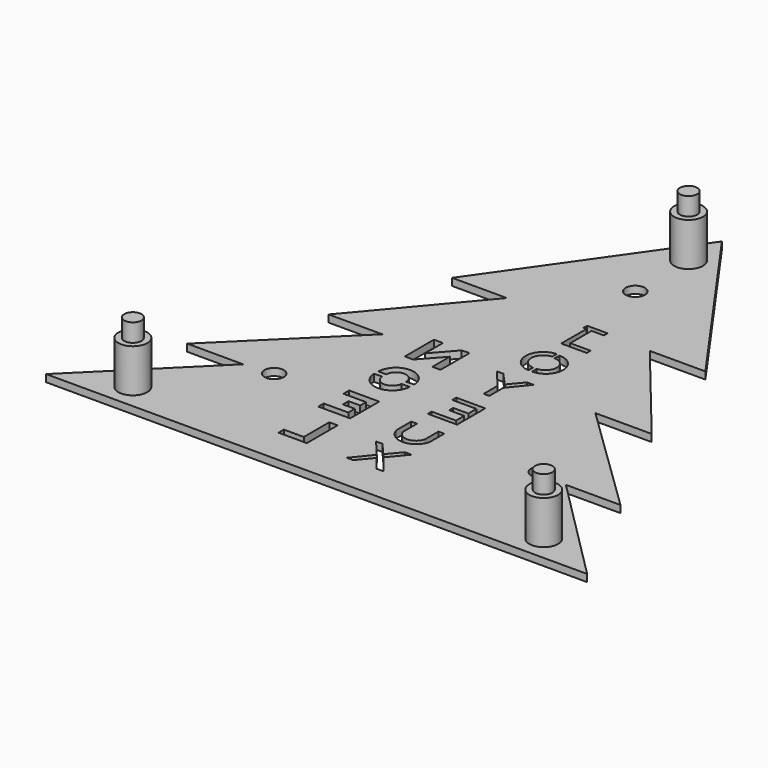
from build123d import *

# Parameters (mm, degrees)
CYLINDER006_R          = 2.4
CYLINDER006_DEPTH      = 7
CYLINDER004_R          = 4
CYLINDER004_DEPTH      = 12
CYLINDER007_R          = 2.4
CYLINDER007_DEPTH      = 7
CYLINDER005_R          = 4
CYLINDER005_DEPTH      = 12
CYLINDER_R             = 2.67
CYLINDER_DEPTH         = 2
CYLINDER001_R          = 2.67
CYLINDER001_DEPTH      = 2
CYLINDER002_R          = 2.67
CYLINDER002_DEPTH      = 2
PAD005_DEPTH           = 2
PAD006_DEPTH           = 2
PAD007_DEPTH           = 2
PAD008_DEPTH           = 2
PAD009_DEPTH           = 2
PAD010_DEPTH           = 2
PAD011_DEPTH           = 2
PAD013_DEPTH           = 2
PAD014_DEPTH           = 2
PAD015_DEPTH           = 2
PAD001_DEPTH           = 2
PAD004_DEPTH           = 2
PAD_DEPTH              = 2
CUT014_PLACEMENT_ANGLE = 180
CYLINDER003_R          = 4
CYLINDER003_DEPTH      = 12
CYLINDER008_R          = 2.4
CYLINDER008_DEPTH      = 7


with BuildPart() as cylindre006:
    # Cylinder006 → Cylinder006 (new body)
    with BuildSketch(Plane.XY.offset(10)):
        Circle(CYLINDER006_R)
    extrude(amount=CYLINDER006_DEPTH)


with BuildPart() as obj1:
    # Cylinder004 → Cylinder004 (new body)
    with BuildSketch(Plane.XY):
        Circle(CYLINDER004_R)
    extrude(amount=CYLINDER004_DEPTH)

    # Fusion001: union Cylindre006
    add(cylindre006.part)


with BuildPart() as obj1_1:
    # Fusion001 placement: moved
    add(obj1.part.moved(Location((57, -123, 0))))


with BuildPart() as cylindre007:
    # Cylinder007 → Cylinder007 (new body)
    with BuildSketch(Plane.XY.offset(10)):
        Circle(CYLINDER007_R)
    extrude(amount=CYLINDER007_DEPTH)


with BuildPart() as obj2:
    # Cylinder005 → Cylinder005 (new body)
    with BuildSketch(Plane.XY):
        Circle(CYLINDER005_R)
    extrude(amount=CYLINDER005_DEPTH)

    # Fusion002: union Cylindre007
    add(cylindre007.part)


with BuildPart() as obj2_1:
    # Fusion002 placement: moved
    add(obj2.part.moved(Location((0, -1.5, 0))))


with BuildPart() as obj3:
    # Cylinder → Cylinder (new body)
    with BuildSketch(Plane(origin=(0, -20, 0), x_dir=(1, 0, 0), z_dir=(0, 0, 1))):
        Circle(CYLINDER_R)
    extrude(amount=CYLINDER_DEPTH)


with BuildPart() as obj4:
    # Cylinder001 → Cylinder001 (new body)
    with BuildSketch(Plane(origin=(-37, -99, 0), x_dir=(1, 0, 0), z_dir=(0, 0, 1))):
        Circle(CYLINDER001_R)
    extrude(amount=CYLINDER001_DEPTH)


with BuildPart() as obj5:
    # Cylinder002 → Cylinder002 (new body)
    with BuildSketch(Plane(origin=(37, -99, 0), x_dir=(1, 0, 0), z_dir=(0, 0, 1))):
        Circle(CYLINDER002_R)
    extrude(amount=CYLINDER002_DEPTH)


with BuildPart() as pad005:
    # Sketch003 → Pad005 (new body)
    with BuildSketch(Plane(origin=(11, -73, 0), x_dir=(1, 0, 0), z_dir=(0, 0, 1))):
        with BuildLine():
            ThreePointArc((-16.037963, 9.653341), (-11.364469, 14.54891), (-16.07126, 19.412473))
            Line((-16.07126, 19.412473), (-16.07126, 17.849285))
            ThreePointArc((-16.099219, 11.213839), (-12.926154, 14.518251), (-16.07126, 17.849285))
            Line((-16.099219, 11.213839), (-16.037963, 9.653341))
        make_face()
    extrude(amount=PAD005_DEPTH)


with BuildPart() as pad006:
    # Sketch004 → Pad006 (new body)
    with BuildSketch(Plane(origin=(50, -28, 0), x_dir=(1, 0, 0), z_dir=(0, 0, 1))):
        Polygon((-60.172302, -40.014927), (-55.94516, -45.234154), (-55.94516, -50.065174), (-54.392334, -50.065174), (-54.392334, -45.234154), (-50.035789, -40.058064), (-51.804287, -40.014927), (-55.211884, -43.767593), (-58.360672, -40.014927), align=None)
    extrude(amount=PAD006_DEPTH)


with BuildPart() as pad007:
    # Sketch005 → Pad007 (new body)
    with BuildSketch(Plane(origin=(51, -113, 0), x_dir=(1, 0, 0), z_dir=(0, 0, 1))):
        Polygon((-59.924492, 29.827353), (-59.924492, 20.043087), (-51.799427, 20.043087), (-51.778122, 21.388154), (-58.539266, 21.388154), (-58.539266, 24.241791), (-54.392208, 24.241791), (-54.368668, 25.648745), (-58.563912, 25.648742), (-58.563912, 28.444752), (-51.871914, 28.444752), (-51.871914, 29.842251), align=None)
    extrude(amount=PAD007_DEPTH)


with BuildPart() as pad008:
    # Sketch006 → Pad008 (new body)
    with BuildSketch(Plane(origin=(40, -88, 0), x_dir=(1, 0, 0), z_dir=(0, 0, 1))):
        with BuildLine():
            ThreePointArc((-49.406039, -14.877108), (-44.91958, -18.684082), (-40.264656, -15.085049))
            Line((-40.264656, -10.039436), (-40.264656, -15.085049))
            Line((-41.877358, -10.014557), (-40.264656, -10.039436))
            Line((-41.877358, -14.88168), (-41.877358, -10.014557))
            ThreePointArc((-47.799763, -14.688175), (-44.913294, -17.072215), (-41.877358, -14.88168))
            Line((-47.799763, -10.014557), (-47.799763, -14.688175))
            Line((-49.406039, -10.014557), (-47.799763, -10.014557))
            Line((-49.406039, -14.877108), (-49.406039, -10.014557))
        make_face()
    extrude(amount=PAD008_DEPTH)


with BuildPart() as pad009:
    # Sketch007 → Pad009 (new body)
    with BuildSketch(Plane(origin=(40, -100, 0), x_dir=(1, 0, 0), z_dir=(0, 0, 1))):
        Polygon((-50.044407, -10.111172), (-48.184219, -10.111172), (-45.103821, -13.769145), (-41.913406, -10.083668), (-40.145214, -10.083668), (-44.168697, -14.869287), (-39.989098, -20.012453), (-41.77589, -20.012453), (-45.048813, -16.051941), (-48.266731, -20.012453), (-50.136971, -20.012453), (-46.03894, -14.924294), align=None)
    extrude(amount=PAD009_DEPTH)


with BuildPart() as pad010:
    # Sketch008 → Pad010 (new body)
    with BuildSketch(Plane(origin=(-50, -55, 0), x_dir=(1, 0, 0), z_dir=(0, 0, 1))):
        Polygon((59.944996, -10.081698), (59.944996, -20.096376), (62.215767, -20.096376), (62.215767, -14.04099), (67.572456, -20.038153), (69.901451, -20.038153), (69.901451, -9.965249), (67.397781, -9.965249), (67.397781, -16.195311), (62.099316, -10.139923), (60.294342, -10.023474), align=None)
    extrude(amount=PAD010_DEPTH)


with BuildPart() as pad011:
    # Sketch009 → Pad011 (new body)
    with BuildSketch(Plane(origin=(-50, -49, 0), x_dir=(1, 0, 0), z_dir=(0, 0, 1))):
        with BuildLine():
            ThreePointArc((69.990994, -35.138157), (65.066559, -30.24793), (60.081311, -35.076147))
            Line((60.081311, -35.076147), (62.25066, -35.155739))
            ThreePointArc((67.819598, -35.120229), (65.017788, -32.418467), (62.25066, -35.155739))
            Line((67.819598, -35.120229), (69.990994, -35.138157))
        make_face()
    extrude(amount=PAD011_DEPTH)


with BuildPart() as pad013:
    # Sketch010 → Pad013 (new body)
    with BuildSketch(Plane(origin=(-50, -50, 0), x_dir=(1, 0, 0), z_dir=(0, 0, 1))):
        with BuildLine():
            ThreePointArc((60.168351, -35.543583), (65.118967, -40.276993), (70.083354, -35.558027))
            Line((67.844375, -35.426405), (70.083354, -35.558027))
            ThreePointArc((62.41541, -35.543583), (65.184903, -38.033705), (67.844375, -35.426405))
            Line((60.168351, -35.543583), (62.41541, -35.543583))
        make_face()
    extrude(amount=PAD013_DEPTH)


with BuildPart() as pad014:
    # Sketch011 → Pad014 (new body)
    with BuildSketch(Plane(origin=(-49, -45, 0), x_dir=(1, 0, 0), z_dir=(0, 0, 1))):
        Polygon((60.004894, -50.040436), (60.004894, -60.12682), (68.854347, -60.12682), (68.854347, -58.239292), (62.037025, -58.239292), (62.037025, -55.989849), (65.320709, -55.989849), (65.320709, -54.042088), (62.078052, -54.042088), (62.078052, -52.009895), (68.356964, -52.009895), (68.356964, -50.040436), align=None)
    extrude(amount=PAD014_DEPTH)


with BuildPart() as pad015:
    # Sketch012 → Pad015 (new body)
    with BuildSketch(Plane(origin=(-59, -10, 0), x_dir=(1, 0, 0), z_dir=(0, 0, 1))):
        Polygon((70.077477, -99.382187), (70.077477, -110.073188), (77.927521, -110.073188), (77.927521, -108.204124), (72.395118, -108.204124), (72.395118, -99.382187), align=None)
    extrude(amount=PAD015_DEPTH)


with BuildPart() as pad001:
    # Sketch001 → Pad001 (new body)
    with BuildSketch(Plane(origin=(24, -79, 0), x_dir=(1, 0, 0), z_dir=(0, 0, 1))):
        Polygon((-31.011786, 39.876404), (-25.943949, 39.876404), (-25.943949, 38.661366), (-26.762781, 38.678547), (-26.762781, 29.865536), (-33.84618, 29.865536), (-33.84618, 31.212646), (-28.189131, 31.212646), (-28.189131, 38.604298), (-31.618616, 38.604298), (-31.618616, 39.928497), align=None)
    extrude(amount=PAD001_DEPTH)


with BuildPart() as pad004:
    # Sketch002 → Pad004 (new body)
    with BuildSketch(Plane(origin=(23, -75, 0), x_dir=(1, 0, 0), z_dir=(0, 0, 1))):
        with BuildLine():
            ThreePointArc((-29.06636, 21.208672), (-33.855078, 16.402926), (-29.050702, 11.612834))
            Line((-29.040989, 13.272719), (-29.050702, 11.612834))
            ThreePointArc((-28.975843, 19.558972), (-32.109932, 16.447987), (-29.040989, 13.272719))
            Line((-29.06636, 21.208672), (-28.975843, 19.558972))
        make_face()
    extrude(amount=PAD004_DEPTH)


with BuildPart() as cut014:
    # Sketch → Pad (new body)
    with BuildSketch(Plane(origin=(0, 0, 0), x_dir=(0, 1, 0), z_dir=(0, 0, 1))):
        Polygon((-130.055618, 74.700851), (-130.055618, -75.434654), (-99.793674, -44.971566), (-99.793674, -60.477265), (-69.960533, -30.215105), (-69.960533, -45.106522), (-39.827045, -19.776331), (-39.827045, -34.952637), (10.030094, 0.023063), (-39.838676, 35.327641), (-39.838676, 19.908756), (-70.002281, 44.561149), (-70.002281, 28.932402), (-100.276372, 60.120483), (-100.276372, 44.971665), align=None)
    extrude(amount=PAD_DEPTH)

    # Cut001: cut Pad004
    add(pad004.part, mode=Mode.SUBTRACT)

    # Cut: cut Pad001
    add(pad001.part, mode=Mode.SUBTRACT)

    # Cut002: cut Pad015
    add(pad015.part, mode=Mode.SUBTRACT)

    # Cut003: cut Pad014
    add(pad014.part, mode=Mode.SUBTRACT)

    # Cut004: cut Pad013
    add(pad013.part, mode=Mode.SUBTRACT)

    # Cut005: cut Pad011
    add(pad011.part, mode=Mode.SUBTRACT)

    # Cut006: cut Pad010
    add(pad010.part, mode=Mode.SUBTRACT)

    # Cut007: cut Pad009
    add(pad009.part, mode=Mode.SUBTRACT)

    # Cut008: cut Pad008
    add(pad008.part, mode=Mode.SUBTRACT)

    # Cut009: cut Pad007
    add(pad007.part, mode=Mode.SUBTRACT)

    # Cut010: cut Pad006
    add(pad006.part, mode=Mode.SUBTRACT)

    # Cut011: cut Pad005
    add(pad005.part, mode=Mode.SUBTRACT)

    # Cut012: cut obj5
    add(obj5.part, mode=Mode.SUBTRACT)

    # Cut013: cut obj4
    add(obj4.part, mode=Mode.SUBTRACT)

    # Cut014: cut obj3
    add(obj3.part, mode=Mode.SUBTRACT)


with BuildPart() as cut014_1:
    # Cut014 placement: moved
    add(cut014.part.rotate(Axis((0, 0, 0), (0, 1, 0)), CUT014_PLACEMENT_ANGLE))


with BuildPart() as cylindre003:
    # Cylinder003 → Cylinder003 (new body)
    with BuildSketch(Plane.XY):
        Circle(CYLINDER003_R)
    extrude(amount=CYLINDER003_DEPTH)


with BuildPart() as fusion005:
    # Cylinder008 → Cylinder008 (new body)
    with BuildSketch(Plane.XY.offset(10)):
        Circle(CYLINDER008_R)
    extrude(amount=CYLINDER008_DEPTH)

    # Fusion: union Cylindre003
    add(cylindre003.part)


with BuildPart() as fusion005_1:
    # Fusion placement: moved
    add(fusion005.part.moved(Location((-57, -123, 0))))

    # Fusion003: union Cut014
    add(cut014_1.part)

    # Fusion004: union obj2
    add(obj2_1.part)

    # Fusion005: union obj1
    add(obj1_1.part)


solid = fusion005_1.part
